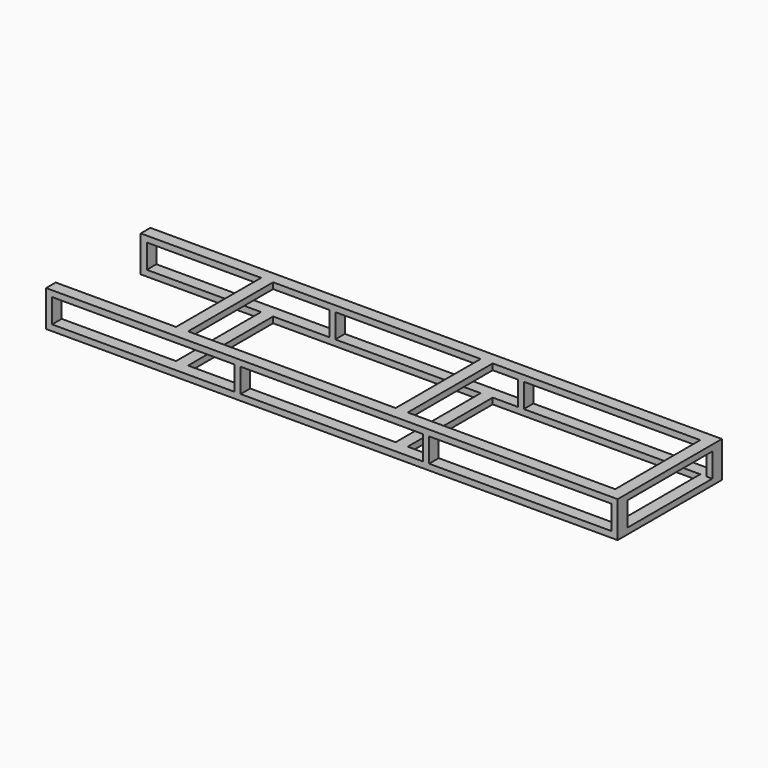
from build123d import *

# Parameters (mm, degrees)
F0_W     = 120
F0_H     = 1060
F1_DEPTH = 60
F2_W     = 60
F2_H     = 120
F3_DEPTH = 300
F4_W     = 120
F4_H     = 1060
F5_DEPTH = 60


with BuildPart() as f1:
    # F0 (on Top) → F1 (new body)
    with BuildSketch(Plane.XY):
        Polygon((5580, 1180), (5700, 1180), (5700, 1300), (0, 1300), (0, 1180), (1200, 1180), (1320, 1180), (3390, 1180), (3510, 1180), align=None)
        Polygon((0, 120), (0, 0), (5700, 0), (5700, 120), (5580, 120), (3510, 120), (3390, 120), (1320, 120), (1200, 120), align=None)
        with Locations((1260, 650)):
            Rectangle(F0_W, F0_H)
        with Locations((3450, 650)):
            Rectangle(F0_W, F0_H)
        with Locations((5640, 650)):
            Rectangle(F0_W, F0_H)
    extrude(amount=F1_DEPTH)

    # F2 (on face) → F3 (join)
    with BuildSketch(Plane.XY.offset(60)):
        with Locations((30, 1240)):
            Rectangle(F2_W, F2_H)
        with Locations((30, 60)):
            Rectangle(F2_W, F2_H)
        with Locations((1910, 1240)):
            Rectangle(F2_W, F2_H)
        with Locations((1910, 60)):
            Rectangle(F2_W, F2_H)
        with Locations((3790, 1240)):
            Rectangle(F2_W, F2_H)
        with Locations((3790, 60)):
            Rectangle(F2_W, F2_H)
        with Locations((5670, 1240)):
            Rectangle(F2_W, F2_H)
        with Locations((5670, 60)):
            Rectangle(F2_W, F2_H)
    extrude(amount=F3_DEPTH)

    # F4 (on face) → F5 (join)
    with BuildSketch(Plane.XY.offset(360)):
        Polygon((60, 1300), (0, 1300), (0, 1180), (60, 1180), (1200, 1180), (1320, 1180), (3390, 1180), (3510, 1180), (5580, 1180), (5580, 120), (3510, 120), (3390, 120), (1320, 120), (1200, 120), (0, 120), (0, 0), (5700, 0), (5700, 1300), align=None)
        with Locations((1260, 650)):
            Rectangle(F4_W, F4_H)
        with Locations((3450, 650)):
            Rectangle(F4_W, F4_H)
    extrude(amount=-F5_DEPTH)


solid = f1.part
